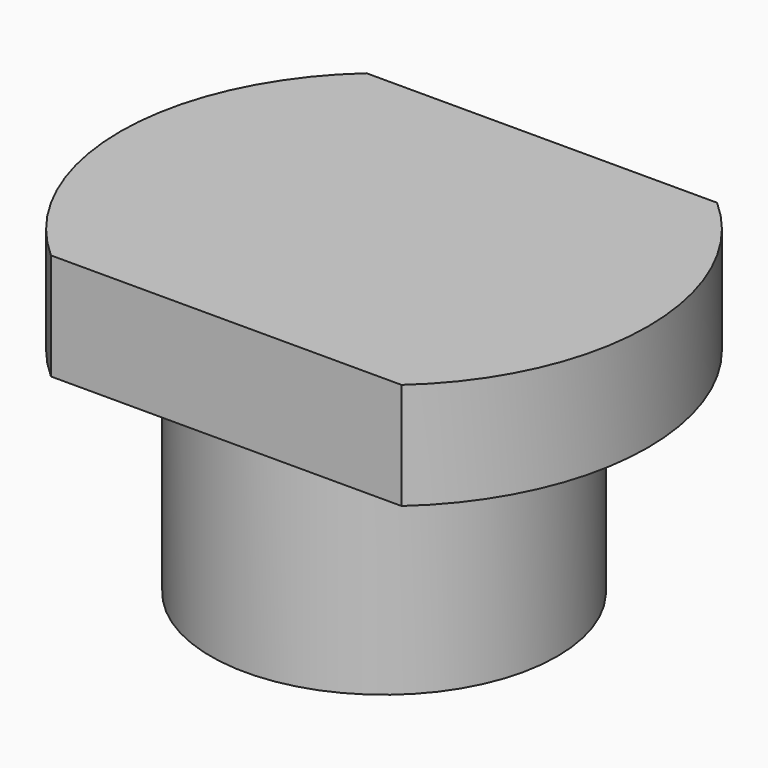
from build123d import *

# Parameters (mm, degrees)
F0_R     = 6.5
F1_DEPTH = 8
F3_DEPTH = 8
F4_R     = 9.9
F5_DEPTH = 4
F7_DEPTH = 4


with BuildPart() as f1:
    # F0 (on Top) → F1 (new body)
    with BuildSketch(Plane.XY):
        Circle(F0_R)
    extrude(amount=F1_DEPTH)

    # F2 (on face) → F3 (cut, through all)
    with BuildSketch(Plane.XY.offset(8)):
        with BuildLine():
            ThreePointArc((3.1, 4.25), (0, 5.260466), (-3.1, 4.25))
            Line((-3.1, 4.25), (-3.1, -4.25))
            ThreePointArc((-3.1, -4.25), (0, -5.260466), (3.1, -4.25))
            Line((3.1, -4.25), (3.1, 4.25))
        make_face()
    extrude(amount=-F3_DEPTH, mode=Mode.SUBTRACT)

    # F4 (on face) → F5 (join)
    with BuildSketch(Plane.XY.offset(8)):
        Circle(F4_R)
    extrude(amount=F5_DEPTH)

    # F6 (on face) → F7 (cut, through all)
    with BuildSketch(Plane.XY.offset(12)):
        with BuildLine():
            ThreePointArc((6.576473, 7.4), (0, 9.9), (-6.576473, 7.4))
            Line((-6.576473, 7.4), (6.576473, 7.4))
        make_face()
        with BuildLine():
            Line((6.576473, -7.4), (-6.576473, -7.4))
            ThreePointArc((-6.576473, -7.4), (0, -9.9), (6.576473, -7.4))
        make_face()
    extrude(amount=-F7_DEPTH, mode=Mode.SUBTRACT)


solid = f1.part
